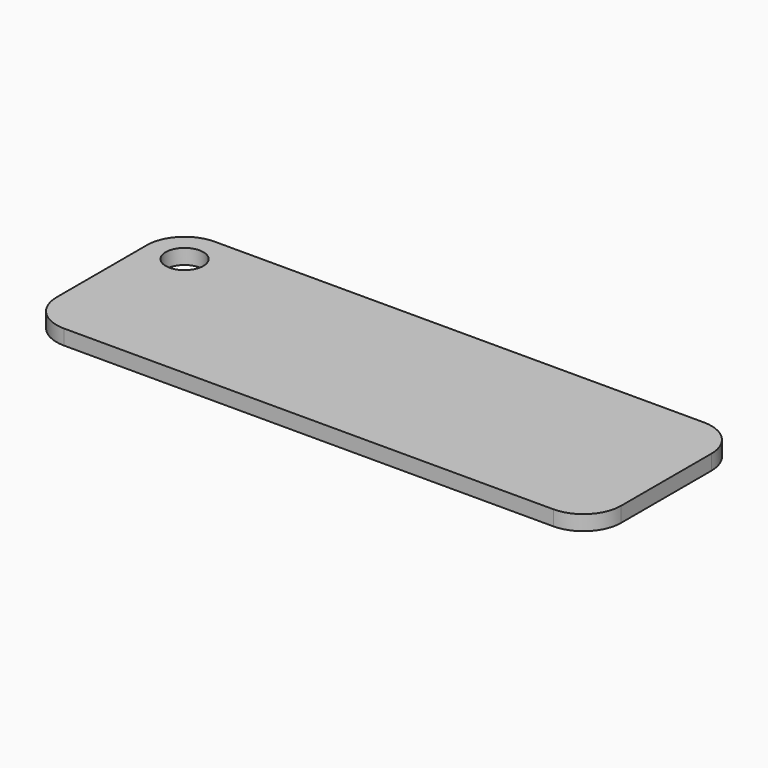
from build123d import *

# Parameters (mm, degrees)
F1_DEPTH = 2
F3_D     = 5


with BuildPart() as f1:
    # F0 (on Top) → F1 (new body)
    with BuildSketch(Plane.XY):
        with BuildLine():
            ThreePointArc((37.5, 7.5), (36.035534, 11.035534), (32.5, 12.5))
            Line((32.5, 12.5), (-32.5, 12.5))
            ThreePointArc((-32.5, 12.5), (-36.035534, 11.035534), (-37.5, 7.5))
            Line((-37.5, 7.5), (-37.5, -7.5))
            ThreePointArc((-37.5, -7.5), (-36.035534, -11.035534), (-32.5, -12.5))
            Line((-32.5, -12.5), (32.5, -12.5))
            ThreePointArc((32.5, -12.5), (36.035534, -11.035534), (37.5, -7.5))
            Line((37.5, -7.5), (37.5, 7.5))
        make_face()
    extrude(amount=F1_DEPTH)

    # F3 (through all)
    with Locations(Plane.XY.offset(2)):
        with Locations((-32.5, 7.5)):
            Hole(F3_D / 2)


solid = f1.part
